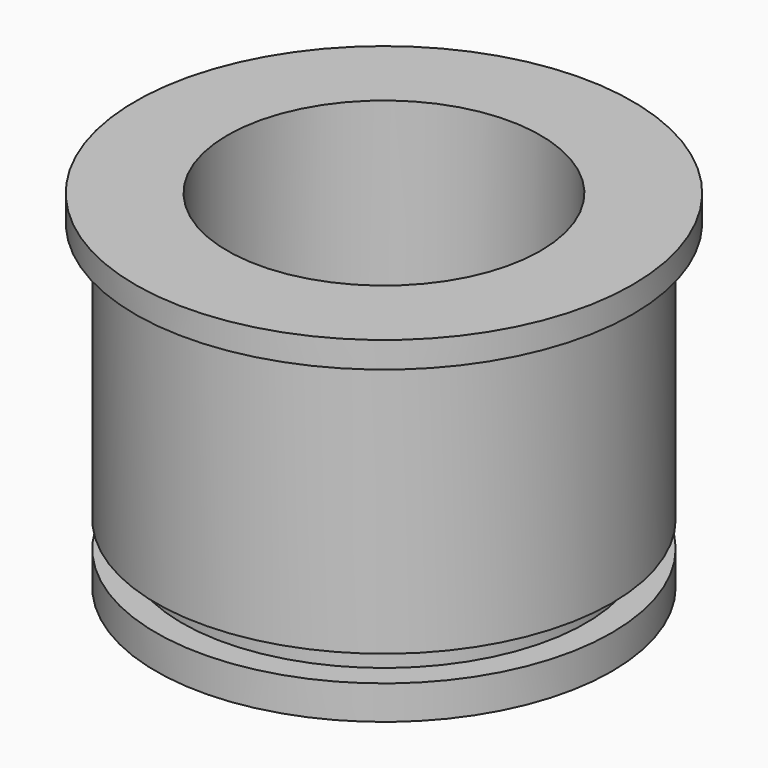
from build123d import *

# Parameters (mm, degrees)
F0_R     = 8.73125
F0_R_2   = 6
F1_DEPTH = 12.3
F2_R     = 9.525
F2_R_2   = 6
F3_DEPTH = 1
F4_W     = 2
F4_H     = 1


with BuildPart() as f1:
    # F0 (on Top) → F1 (new body)
    with BuildSketch(Plane.XY):
        Circle(F0_R)
        Circle(F0_R_2, mode=Mode.SUBTRACT)
    extrude(amount=F1_DEPTH)

    # F2 (on face) → F3 (join)
    with BuildSketch(Plane.XY.offset(12.3)):
        Circle(F2_R)
        Circle(F2_R_2, mode=Mode.SUBTRACT)
    extrude(amount=F3_DEPTH)

    # F4 (on Front) → F5 (revolve, cut)
    with BuildSketch(Plane.XZ):
        with Locations((-8.73125, 1.8)):
            Rectangle(F4_W, F4_H)
    revolve(axis=Axis((0, 0, 7.145868), (0, 0, -1)), mode=Mode.SUBTRACT)


solid = f1.part
